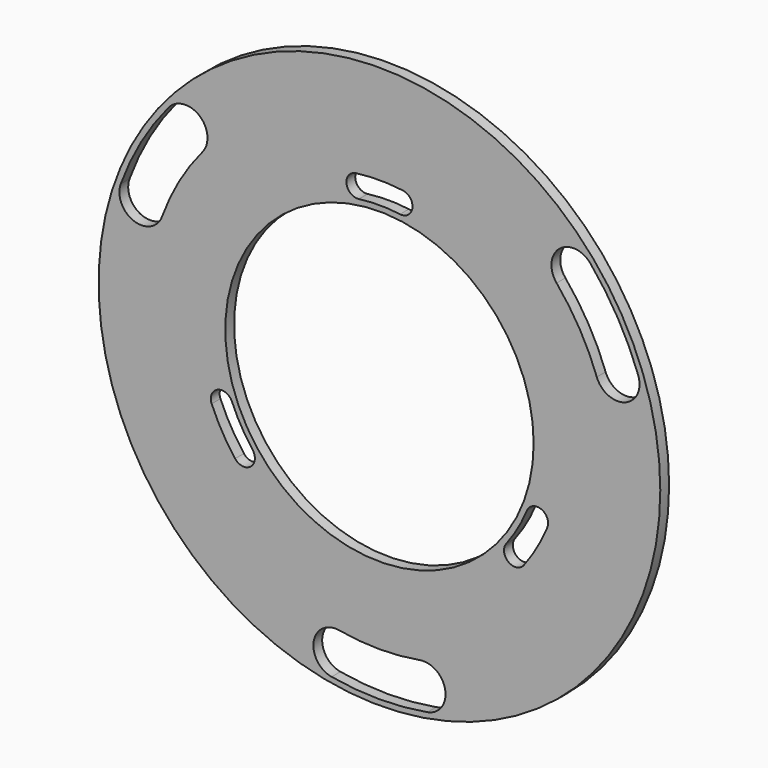
from build123d import *

# Parameters (mm, degrees)
F0_R     = 161.925
F0_R_2   = 88.9
F1_DEPTH = 6.35


with BuildPart() as f1:
    # F0 (on Front) → F1 (new body)
    with BuildSketch(Plane.XZ):
        Circle(F0_R)
        with BuildLine():
            ThreePointArc((27.608696, -156.330811), (0, -158.75), (-27.608696, -156.330811))
            ThreePointArc((-27.608696, -156.330811), (-37.906465, -141.61565), (-23.191304, -131.317881))
            ThreePointArc((-23.191304, -131.317881), (0, -133.35), (23.191304, -131.317881))
            ThreePointArc((23.191304, -131.317881), (37.906465, -141.61565), (27.608696, -156.330811))
        make_face(mode=Mode.SUBTRACT)
        with BuildLine():
            ThreePointArc((-83.219602, -63.657666), (-90.737812, -52.3875), (-96.738957, -40.241457))
            ThreePointArc((-96.738957, -40.241457), (-93.314866, -31.939613), (-85.013023, -35.363704))
            ThreePointArc((-85.013023, -35.363704), (-79.739289, -46.0375), (-73.132378, -55.941585))
            ThreePointArc((-73.132378, -55.941585), (-74.31795, -64.843238), (-83.219602, -63.657666))
        make_face(mode=Mode.SUBTRACT)
        with BuildLine():
            ThreePointArc((96.738957, -40.241457), (90.737812, -52.3875), (83.219602, -63.657666))
            ThreePointArc((83.219602, -63.657666), (74.31795, -64.843238), (73.132378, -55.941585))
            ThreePointArc((73.132378, -55.941585), (79.739289, -46.0375), (85.013023, -35.363704))
            ThreePointArc((85.013023, -35.363704), (93.314866, -31.939613), (96.738957, -40.241457))
        make_face(mode=Mode.SUBTRACT)
        with BuildLine():
            ThreePointArc((-149.190801, 54.255574), (-137.481533, 79.375), (-121.582106, 102.075237))
            ThreePointArc((-121.582106, 102.075237), (-103.689518, 103.635787), (-102.128969, 85.743199))
            ThreePointArc((-102.128969, 85.743199), (-115.484488, 66.675), (-125.320273, 45.574682))
            ThreePointArc((-125.320273, 45.574682), (-141.595983, 37.979864), (-149.190801, 54.255574))
        make_face(mode=Mode.SUBTRACT)
        Circle(F0_R_2, mode=Mode.SUBTRACT)
        with BuildLine():
            ThreePointArc((121.582106, 102.075237), (137.481533, 79.375), (149.190801, 54.255574))
            ThreePointArc((149.190801, 54.255574), (141.595983, 37.979864), (125.320273, 45.574682))
            ThreePointArc((125.320273, 45.574682), (115.484488, 66.675), (102.128969, 85.743199))
            ThreePointArc((102.128969, 85.743199), (103.689518, 103.635787), (121.582106, 102.075237))
        make_face(mode=Mode.SUBTRACT)
        with BuildLine():
            ThreePointArc((-11.880645, 91.30529), (-18.996917, 96.782851), (-13.519355, 103.899123))
            ThreePointArc((-13.519355, 103.899123), (0, 104.775), (13.519355, 103.899123))
            ThreePointArc((13.519355, 103.899123), (18.996917, 96.782851), (11.880645, 91.30529))
            ThreePointArc((11.880645, 91.30529), (0, 92.075), (-11.880645, 91.30529))
        make_face(mode=Mode.SUBTRACT)
    extrude(amount=F1_DEPTH)


solid = f1.part
